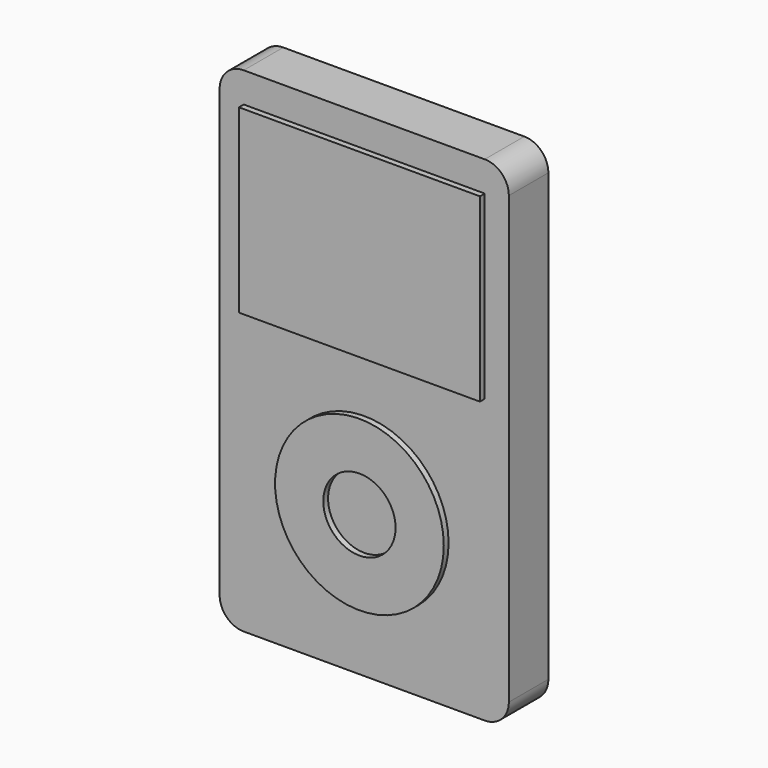
from build123d import *

# Parameters (mm, degrees)
F1_DEPTH = 10.414
F2_W     = 50.8
F2_H     = 38.1
F2_R     = 17.78
F2_R_2   = 7.62
F3_DEPTH = 1.27
F4_R     = 2.69915
F4_W     = 8.422103
F4_H     = 5.414218
F5_DEPTH = 1.016


with BuildPart() as f1:
    # F0 (on Front) → F1 (new body)
    with BuildSketch(Plane.XZ):
        with BuildLine():
            ThreePointArc((30.48, 46.99), (28.992102, 50.582102), (25.4, 52.07))
            Line((25.4, 52.07), (-25.4, 52.07))
            ThreePointArc((-25.4, 52.07), (-28.992102, 50.582102), (-30.48, 46.99))
            Line((-30.48, 46.99), (-30.48, -46.99))
            ThreePointArc((-30.48, -46.99), (-28.992102, -50.582102), (-25.4, -52.07))
            Line((-25.4, -52.07), (25.4, -52.07))
            ThreePointArc((25.4, -52.07), (28.992102, -50.582102), (30.48, -46.99))
            Line((30.48, -46.99), (30.48, 46.99))
        make_face()
    extrude(amount=F1_DEPTH)

    # F2 (on face) → F3 (join)
    with BuildSketch(Plane.XZ.offset(10.414)):
        with Locations((0, 26.67)):
            Rectangle(F2_W, F2_H)
        with Locations((0, -21.59)):
            Circle(F2_R)
        with Locations((0, -21.59)):
            Circle(F2_R_2, mode=Mode.SUBTRACT)
    extrude(amount=F3_DEPTH)

    # F4 (on face) → F5 (join)
    with BuildSketch(Plane(origin=(0, 0, 0), x_dir=(-1, 0, 0), z_dir=(0, 1, 0))):
        with Locations((25.4, 46.99)):
            Circle(F4_R)
        with Locations((-22.108027, 47.073554)):
            Rectangle(F4_W, F4_H)
    extrude(amount=F5_DEPTH)


solid = f1.part
